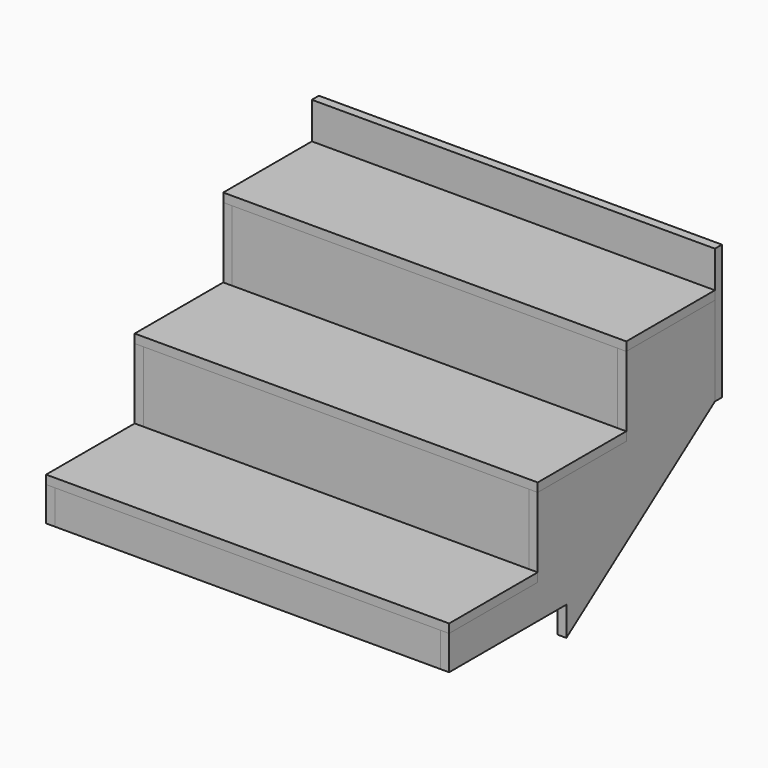
from build123d import *

# Parameters (mm, degrees)
F0_W           = 226.6666666667
F0_H           = 18
F1_DEPTH       = 825
F4_DEPTH       = 18
F8_W           = 18
F8_H           = 130
F9_DEPTH       = 789
F8_H_2         = 162
F10_W          = 825
F10_H          = 275.4117647059
F11_DEPTH      = 18
F2_W           = 300
F2_H           = 60
F12_DEPTH      = 825.001
F14_DEPTH      = 9
F16_W          = 789
F16_H          = 18
F17_DEPTH      = 48.8143056074
F17_DEPTH_BACK = 70


with BuildPart() as f1:
    # F0 (on Right) → F1 (new body)
    with BuildSketch(Plane.YZ):
        with Locations((340, 301)):
            Rectangle(F0_W, F0_H)
    extrude(amount=F1_DEPTH)


with BuildPart() as f1b:
    # F0 (on Right) → F1, piece 2 (new body)
    with BuildSketch(Plane.YZ):
        with Locations((566.6666666667, 463)):
            Rectangle(F0_W, F0_H)
    extrude(amount=F1_DEPTH)


with BuildPart() as f1c:
    # F0 (on Right) → F1, piece 3 (new body)
    with BuildSketch(Plane.YZ):
        with Locations((113.3333333333, 139)):
            Rectangle(F0_W, F0_H)
    extrude(amount=F1_DEPTH)


with BuildPart() as f4:
    # F3 (on Right) → F4 (new body)
    with BuildSketch(Plane.YZ):
        Polygon((0, 0), (300, 0), (680, 271.5882352941), (680, 454), (453.3333333333, 454), (453.3333333333, 292), (226.6666666667, 292), (226.6666666667, 130), (0, 130), align=None)
    extrude(amount=F4_DEPTH)


with BuildPart() as f7_1:
    # F7: instance of F4
    add(f4.part.mirror(Plane.YZ.offset(412.5)))


with BuildPart() as f9:
    # F8 (on face) → F9 (new body, through all)
    with BuildSketch(Plane.YZ.offset(18)):
        with Locations((9, 65)):
            Rectangle(F8_W, F8_H)
    extrude(amount=F9_DEPTH)


with BuildPart() as f9b:
    # F8 (on face) → F9, piece 2 (new body, through all)
    with BuildSketch(Plane.YZ.offset(18)):
        with Locations((235.6666666667, 211)):
            Rectangle(F8_W, F8_H_2)
    extrude(amount=F9_DEPTH)


with BuildPart() as f9c:
    # F8 (on face) → F9, piece 3 (new body, through all)
    with BuildSketch(Plane.YZ.offset(18)):
        with Locations((462.3333333333, 373)):
            Rectangle(F8_W, F8_H_2)
    extrude(amount=F9_DEPTH)


with BuildPart() as f11:
    # F10 (on face) → F11 (new body)
    with BuildSketch(Plane(origin=(0, 680, 0), x_dir=(-1, 0, 0), z_dir=(0, 1, 0))):
        with Locations((-412.5, 409.2941176471)):
            Rectangle(F10_W, F10_H)
    extrude(amount=F11_DEPTH)


with BuildPart() as f12_tool:
    # F2 (on Right) → F12 (new body, through all)
    with BuildSketch(Plane.YZ):
        with Locations((150, 30)):
            Rectangle(F2_W, F2_H)
    extrude(amount=F12_DEPTH)


with BuildPart() as f4_1:
    add(f4.part)

    # F12: cut by f12_tool
    add(f12_tool.part, mode=Mode.SUBTRACT)


with BuildPart() as f7_1_1:
    add(f7_1.part)

    # F12: cut by f12_tool
    add(f12_tool.part, mode=Mode.SUBTRACT)


with BuildPart() as f9_1:
    add(f9.part)

    # F12: cut by f12_tool
    add(f12_tool.part, mode=Mode.SUBTRACT)


with BuildPart() as f14:
    # F13 (on plane+point) → F14 (new body, symmetric)
    with BuildSketch(Plane.YZ.offset(412.5)):
        Polygon((18, 130), (18, 60), (300, 60), (680, 331.5882352941), (680, 454), (471.3333333333, 454), (471.3333333333, 292), (244.6666666667, 292), (244.6666666667, 130), align=None)
    extrude(amount=F14_DEPTH, both=True)


with BuildPart() as f17:
    # F16 (on face) → F17 (new body, two sides)
    with BuildSketch(Plane(origin=(0, 73.0465104295, -102.2049940166), x_dir=(1, 0, 0), z_dir=(0, 0.5814645227, -0.8135717601))) as f17_sk:
        with Locations((412.5, -477.60962426)):
            Rectangle(F16_W, F16_H)
    extrude(amount=F17_DEPTH)
    extrude(f17_sk.sketch, amount=-F17_DEPTH_BACK)

    # F18: cut F14
    add(f14.part, mode=Mode.SUBTRACT)


solid = Compound([f1.part, f1b.part, f1c.part, f9b.part, f9c.part, f11.part, f4_1.part, f7_1_1.part, f9_1.part, f14.part, f17.part])
